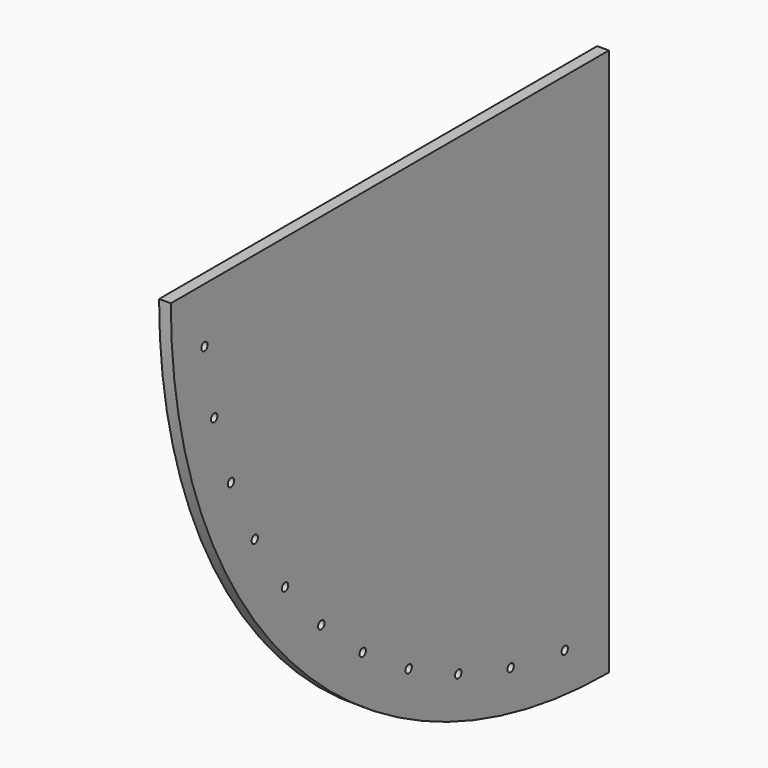
from build123d import *

# Parameters (mm, degrees)
F0_R     = 6.477
F1_DEPTH = 19.05


with BuildPart() as f1:
    # F0 (on Right) → F1 (new body)
    with BuildSketch(Plane.YZ):
        with BuildLine():
            Line((0, 0), (-889, 0))
            ThreePointArc((-889, 0), (-628.617928, -628.617928), (0, -889))
            Line((0, -889), (0, 0))
        make_face()
        with Locations((-499.617876, -657.139428)):
            Circle(F0_R, mode=Mode.SUBTRACT)
        with Locations((-718.543337, -406.381253)):
            Circle(F0_R, mode=Mode.SUBTRACT)
        with Locations((-583.716648, -583.716648)):
            Circle(F0_R, mode=Mode.SUBTRACT)
        with Locations((-657.139428, -499.617876)):
            Circle(F0_R, mode=Mode.SUBTRACT)
        with Locations((-305.712046, -766.805317)):
            Circle(F0_R, mode=Mode.SUBTRACT)
        with Locations((-406.381253, -718.543337)):
            Circle(F0_R, mode=Mode.SUBTRACT)
        with Locations((-199.451463, -801.042673)):
            Circle(F0_R, mode=Mode.SUBTRACT)
        with Locations((-89.542976, -820.629213)):
            Circle(F0_R, mode=Mode.SUBTRACT)
        with Locations((-766.805317, -305.712046)):
            Circle(F0_R, mode=Mode.SUBTRACT)
        with Locations((-801.042673, -199.451463)):
            Circle(F0_R, mode=Mode.SUBTRACT)
        with Locations((-820.629213, -89.542976)):
            Circle(F0_R, mode=Mode.SUBTRACT)
    extrude(amount=F1_DEPTH)


solid = f1.part
